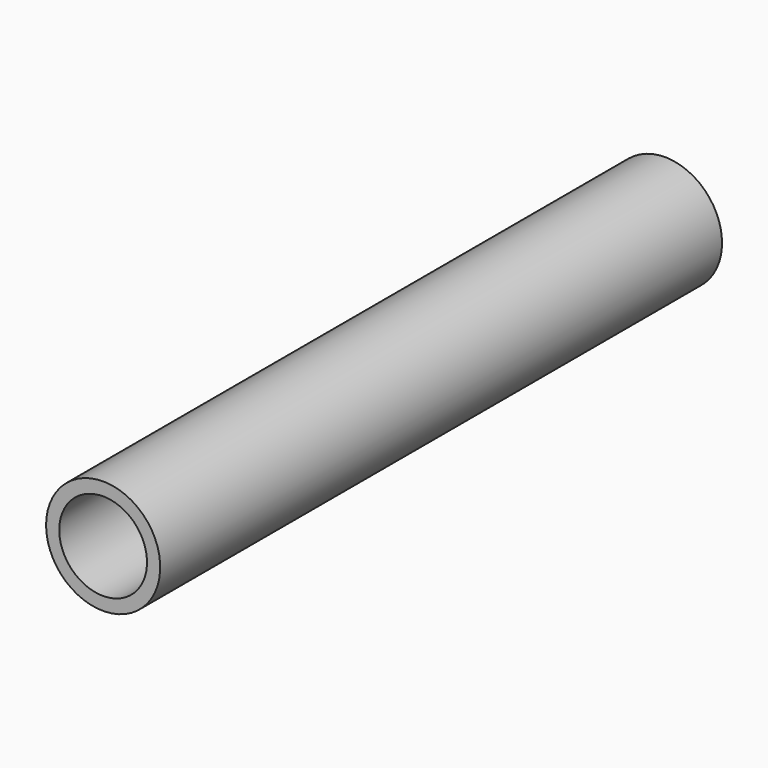
from build123d import *

# Parameters (mm, degrees)
OBJ1     = 6.5
OBJ1_2   = 5
EXTRUSION2_DEPTH = 80


with BuildPart() as part:
    with BuildSketch(Plane(origin=(0, 0, 0), x_dir=(-1, 0, 0), z_dir=(0, 1, 0))):
        Circle(OBJ1)
        Circle(OBJ1_2, mode=Mode.SUBTRACT)
    extrude(amount=EXTRUSION2_DEPTH)


solid = part.part
